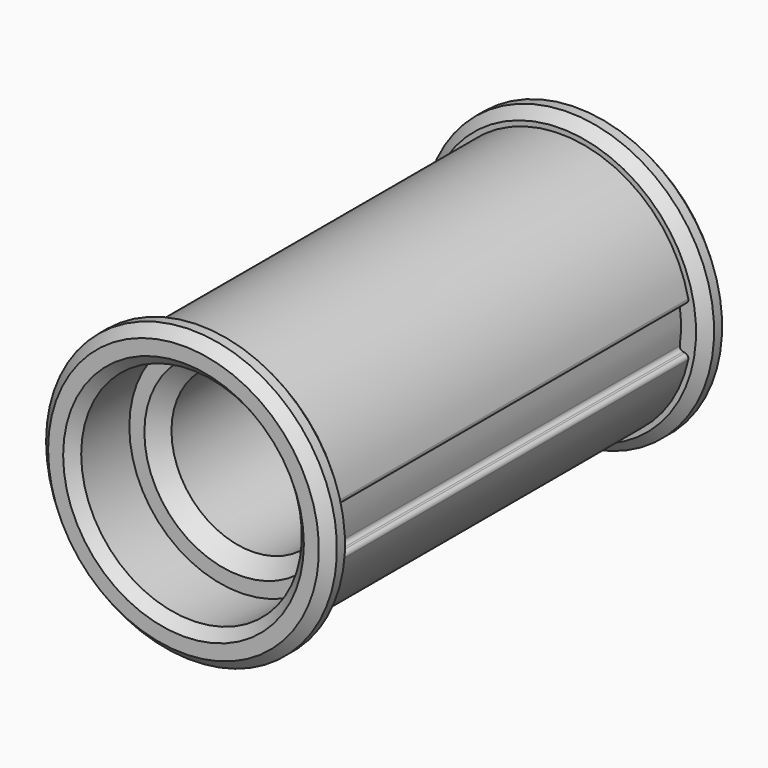
from build123d import *

# Parameters (mm, degrees)
CHAMFER_SIZE    = 1.5
SKETCH001_W     = 1.5
SKETCH001_H     = 3
SKETCH002_W     = 3
SKETCH002_H     = 44
GROOVE_ANGLE    = 20
FILLET_R        = 0.4
CHAMFER002_SIZE = 1


with BuildPart() as part:
    # Sketch → Revolution (revolve)
    with BuildSketch(Plane.XY):
        Polygon((-13, -25), (-13, 25), (-11, 25), (-11, 18), (-8, 18), (-8, -18), (-11, -18), (-11, -25), align=None)
    revolve(axis=Axis((0, 0, 0), (0, 1, 0)))

    # Chamfer
    chamfer_edges = [part.edges().sort_by_distance(p)[0] for p in [
        (8, -18, 0),
        (8, 18, 0),
    ]]
    chamfer(chamfer_edges, length=CHAMFER_SIZE)

    # Sketch001 → Revolution001 (revolve)
    with BuildSketch(Plane.XY):
        with Locations((-13.75, 23.5)):
            Rectangle(SKETCH001_W, SKETCH001_H)
    revolution001 = revolve(axis=Axis((0, 0, 0), (0, 1, 0)))

    # Mirrored: Revolution001 across XZ
    add(revolution001.mirror(Plane.XZ))

    # Sketch002 → Groove (revolve, symmetric, cut)
    with BuildSketch(Plane.XY) as groove_sk:
        with Locations((13.5, 0)):
            Rectangle(SKETCH002_W, SKETCH002_H)
    revolve(axis=Axis((0, 0, 0), (0, 1, 0)), revolution_arc=GROOVE_ANGLE / 2, mode=Mode.SUBTRACT)
    revolve(groove_sk.sketch, axis=Axis((0, 0, 0), (0, -1, 0)), revolution_arc=GROOVE_ANGLE / 2, mode=Mode.SUBTRACT)

    # Fillet
    fillet_edges = [part.edges().sort_by_distance(p)[0] for p in [
        (12.802501, 0, 2.257426),
        (12.802501, 0, -2.257426),
        (11.817693, 0, -2.083778),
        (11.817693, 0, 2.083778),
    ]]
    fillet(fillet_edges, radius=FILLET_R)

    # Chamfer002
    chamfer002_edges = [part.edges().sort_by_distance(p)[0] for p in [
        (14.5, 25, 0),
        (14.5, -25, 0),
        (11, 25, 0),
        (11, -25, 0),
        (-1.263758, 22, 14.444823),
        (-1.263758, -22, 14.444823),
    ]]
    chamfer(chamfer002_edges, length=CHAMFER002_SIZE)


with BuildPart() as part_1:
    # Body placement: moved
    add(part.part.moved(Location((16.89, 0, 0))))


solid = part_1.part
